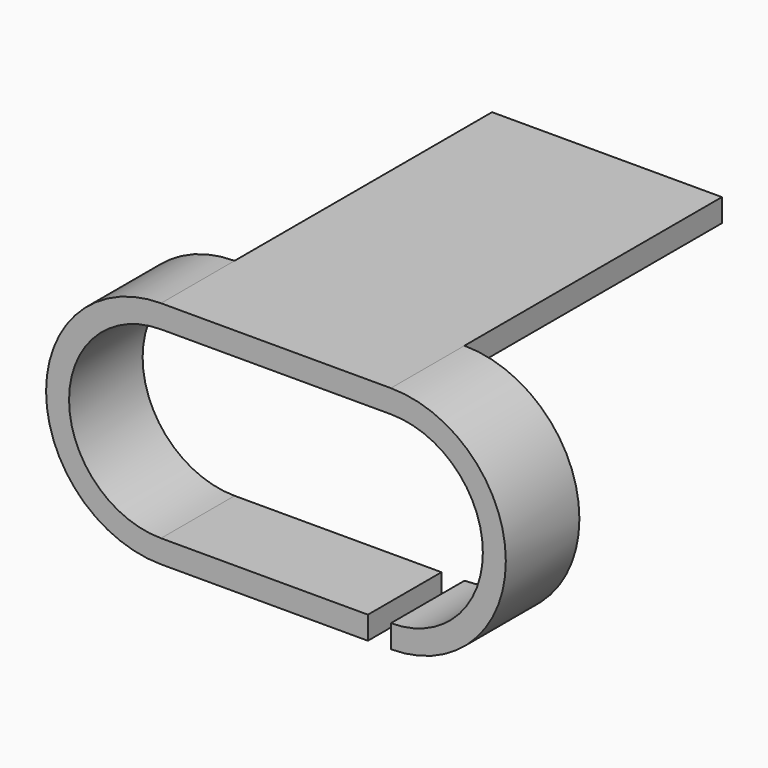
from build123d import *

# Parameters (mm, degrees)
F0_W     = 50
F0_H     = 5
F1_DEPTH = 20
F2_DEPTH = 70


with BuildPart() as f1:
    # F0 (on Front) → F1 (new body)
    with BuildSketch(Plane.XZ):
        with BuildLine():
            ThreePointArc((0, 40), (20, 20), (0, 0))
            Line((0, 0), (0, -5))
            ThreePointArc((0, -5), (25, 20), (0, 45))
            Line((0, 45), (0, 40))
        make_face()
        with Locations((-25, 42.5)):
            Rectangle(F0_W, F0_H)
        with BuildLine():
            Line((-5, -5), (-5, 0))
            Line((-5, 0), (-50, 0))
            ThreePointArc((-50, 0), (-70, 20), (-50, 40))
            Line((-50, 40), (-50, 45))
            ThreePointArc((-50, 45), (-75, 20), (-50, -5))
            Line((-50, -5), (-5, -5))
        make_face()
    extrude(amount=F1_DEPTH)

    # F0 (on Front) → F2 (join)
    with BuildSketch(Plane.XZ):
        with Locations((-25, 42.5)):
            Rectangle(F0_W, F0_H)
    extrude(amount=-F2_DEPTH)


solid = f1.part
